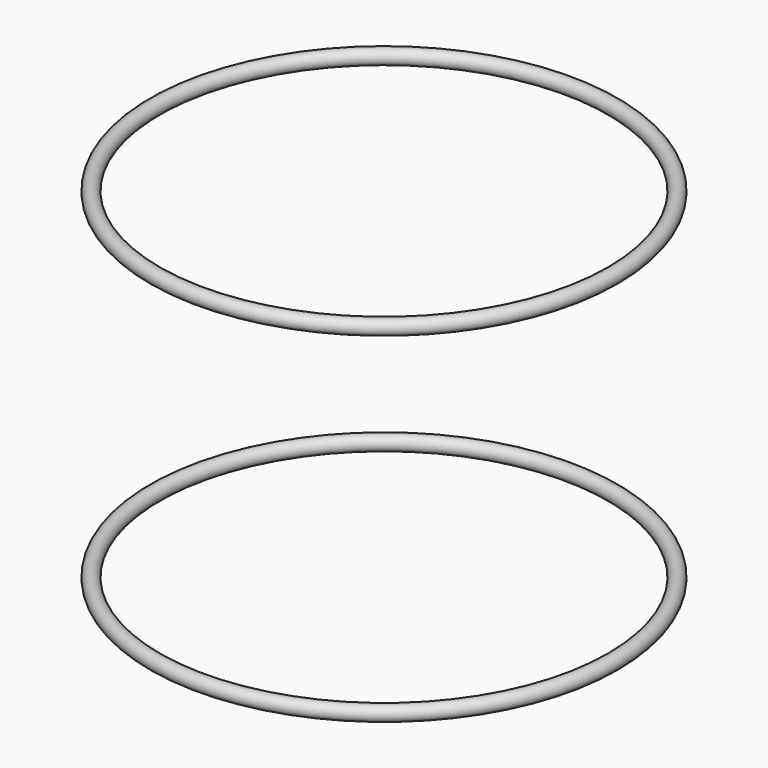
from build123d import *

# Parameters (mm, degrees)
F1_R = 1.5


with BuildPart() as f2:
    # F1 (on Front) → F2 (revolve)
    with BuildSketch(Plane.XZ):
        with Locations((46, -34.167339)):
            Circle(F1_R)
        with Locations((46, 34.167339)):
            Circle(F1_R)
    revolve(axis=Axis((0, 0, 0.444556), (0, 0, -1)))


solid = f2.part
